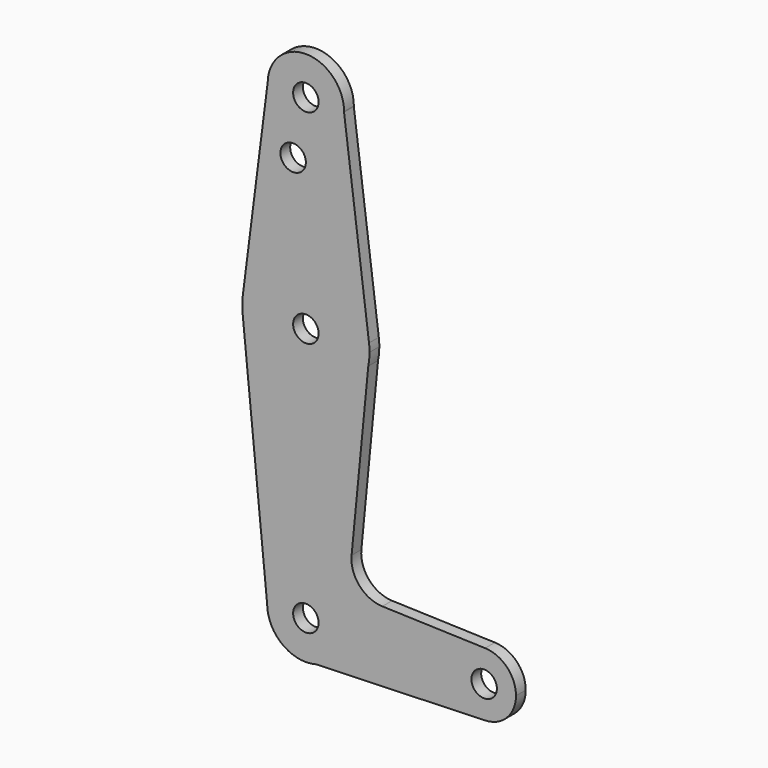
from build123d import *

# Parameters (mm, degrees)
F0_R     = 3.175
F1_DEPTH = 3.048


with BuildPart() as f1:
    # F0 (on Front) → F1 (new body)
    with BuildSketch(Plane.XZ):
        with BuildLine():
            ThreePointArc((9.523466, 114.129086), (9.524617, 114.214539), (9.525, 114.3))
            ThreePointArc((9.525, 114.3), (0.098015, 123.824496), (-9.522983, 114.49602))
            ThreePointArc((-9.522983, 114.49602), (-0.183467, 104.776767), (9.523466, 114.129086))
        make_face()
        with Locations((0, 114.3)):
            Circle(F0_R, mode=Mode.SUBTRACT)
        with BuildLine():
            ThreePointArc((9.523466, 114.129086), (-0.183467, 104.776767), (-9.522983, 114.49602))
            Line((-9.522983, 114.49602), (-15.748382, 65.50102))
            ThreePointArc((-15.748382, 65.50102), (-0.007412, 79.374998), (15.746507, 65.515725))
            Line((15.746507, 65.515725), (9.523466, 114.129086))
        make_face()
        with Locations((-3.175, 100.0252)):
            Circle(F0_R, mode=Mode.SUBTRACT)
        with BuildLine():
            ThreePointArc((15.746507, 65.515725), (-0.007412, 79.374998), (-15.748382, 65.50102))
            ThreePointArc((-15.748382, 65.50102), (-15.875, 63.5), (-15.748382, 61.49898))
            ThreePointArc((-15.748382, 61.49898), (-0.577681, 47.635514), (15.561139, 60.358891))
            ThreePointArc((15.561139, 60.358891), (15.79634, 61.921625), (15.875, 63.5))
            ThreePointArc((15.875, 63.5), (15.842844, 64.509908), (15.746507, 65.515725))
        make_face()
        with Locations((0, 63.5)):
            Circle(F0_R, mode=Mode.SUBTRACT)
        with BuildLine():
            ThreePointArc((15.561139, 60.358891), (-0.577681, 47.635514), (-15.748382, 61.49898))
            Line((-15.748382, 61.49898), (-9.658994, 0))
            ThreePointArc((-9.658994, 0), (0, 9.658994), (9.658994, 0))
            ThreePointArc((9.658994, 0), (7.65962, -5.884419), (2.489224, -9.332734))
            Line((2.489224, -9.332734), (44.71296, -7.933143))
            ThreePointArc((44.71296, -7.933143), (36.5125, -0.001376), (44.710209, 7.933234))
            Line((44.710209, 7.933234), (19.053724, 8.774763))
            ThreePointArc((19.053724, 8.774763), (13.340696, 11.474631), (11.401315, 17.488513))
            Line((11.401315, 17.488513), (15.561139, 60.358891))
        make_face()
        with BuildLine():
            ThreePointArc((9.658994, 0), (0, 9.658994), (-9.658994, 0))
            ThreePointArc((-9.658994, 0), (-5.884419, -7.65962), (2.489224, -9.332734))
            ThreePointArc((2.489224, -9.332734), (7.65962, -5.884419), (9.658994, 0))
        make_face()
        Circle(F0_R, mode=Mode.SUBTRACT)
        with BuildLine():
            ThreePointArc((44.710209, 7.933234), (36.5125, -0.001376), (44.71296, -7.933143))
            ThreePointArc((44.71296, -7.933143), (50.154873, -5.518907), (52.3875, 0))
            ThreePointArc((52.3875, 0), (50.153916, 5.519896), (44.710209, 7.933234))
        make_face()
        with Locations((44.45, 0)):
            Circle(F0_R, mode=Mode.SUBTRACT)
    extrude(amount=F1_DEPTH)


solid = f1.part
